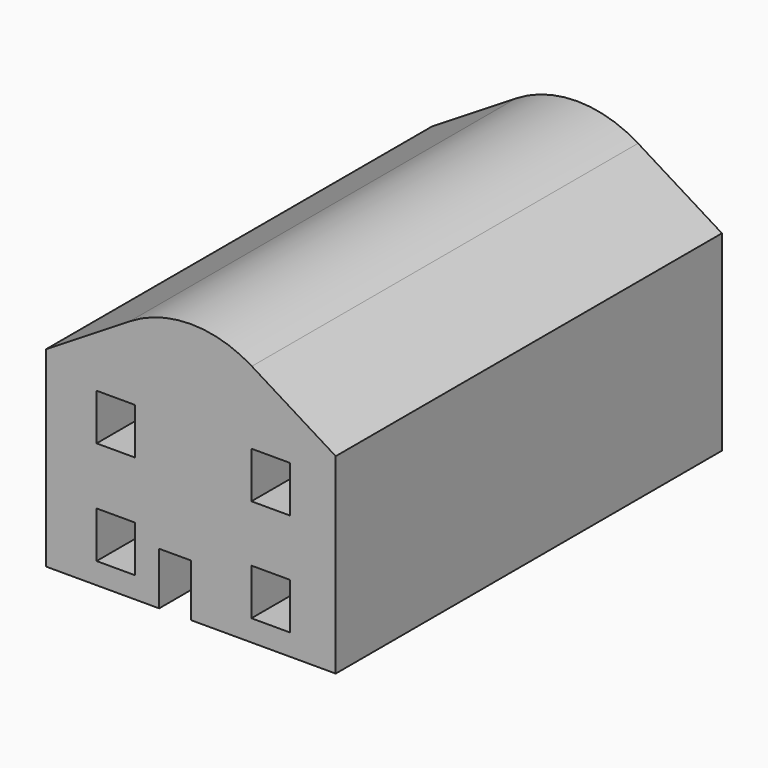
from build123d import *

# Parameters (mm, degrees)
F0_W     = 25.4
F0_H     = 30.48
F1_DEPTH = 317.5
F0_W_2   = 20.8801385015
F0_H_2   = 34.5365251615
F2_DEPTH = 254
F3_R     = 76.2


with BuildPart() as f1:
    # F0 (on Front) → F1 (new body)
    with BuildSketch(Plane.XZ):
        Polygon((0, 121.8727435376), (-95.25, 62.9464942231), (95.25, 62.9464942231), align=None)
        Polygon((95.25, 62.9464942231), (-95.25, 62.9464942231), (-95.25, -62.9464942231), (-20.8801385015, -62.9464942231), (-20.8801385015, -28.4099690616), (0, -28.4099690616), (0, -62.9464942231), (95.25, -62.9464942231), align=None)
        with Locations((-49.3217527476, -33.6759798229)):
            Rectangle(F0_W, F0_H, mode=Mode.SUBTRACT)
        with Locations((52.5188967586, -33.6759798229)):
            Rectangle(F0_W, F0_H, mode=Mode.SUBTRACT)
        with Locations((-49.3217527476, 34.4667454919)):
            Rectangle(F0_W, F0_H, mode=Mode.SUBTRACT)
        with Locations((52.5188967586, 34.0303108096)):
            Rectangle(F0_W, F0_H, mode=Mode.SUBTRACT)
    extrude(amount=F1_DEPTH)

    # F0 (on Front) → F2 (join)
    with BuildSketch(Plane.XZ):
        with Locations((52.5188967586, 34.0303108096)):
            Rectangle(F0_W, F0_H)
        with Locations((-49.3217527476, 34.4667454919)):
            Rectangle(F0_W, F0_H)
        with Locations((52.5188967586, -33.6759798229)):
            Rectangle(F0_W, F0_H)
        with Locations((-49.3217527476, -33.6759798229)):
            Rectangle(F0_W, F0_H)
        with Locations((-10.4400692508, -45.6782316424)):
            Rectangle(F0_W_2, F0_H_2)
        with Locations((-10.4400692508, -45.6782316424)):
            Rectangle(F0_W_2, F0_H_2)
    extrude(amount=F2_DEPTH)

    # F3
    f3_edges = [f1.edges().sort_by_distance(p)[0] for p in [
        (0, -158.75, 121.872744),
    ]]
    fillet(f3_edges, radius=F3_R)


solid = f1.part
